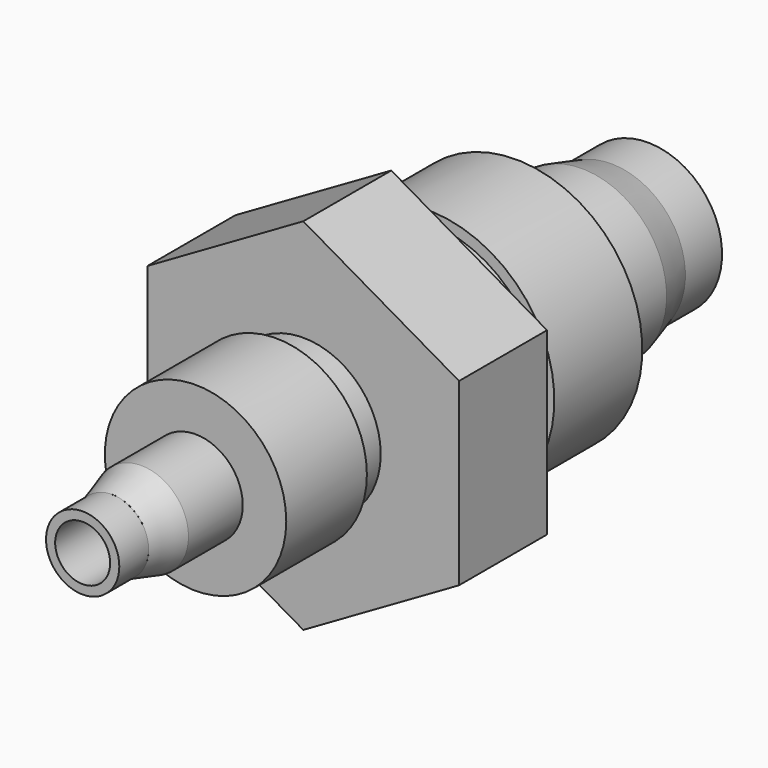
from build123d import *

# Parameters (mm, degrees)
F1_DEPTH  = 3
F2_R      = 6.3
F3_DEPTH  = 2.5
F4_R      = 6.9
F5_DEPTH  = 6
F6_R      = 4.625
F7_DEPTH  = 4.5
F8_R      = 4.625
F9_DEPTH  = 2
F9_TAPER  = 16
F10_R     = 4.0515092285
F10_R_2   = 4
F11_DEPTH = 2.5
F12_R     = 3.225
F13_DEPTH = 20.5
F14_R     = 4.225
F15_DEPTH = 1.85
F16_R     = 4.95
F17_DEPTH = 5.5
F18_R     = 2.575
F19_DEPTH = 3.7
F20_R     = 2.575
F21_DEPTH = 2
F21_TAPER = 16
F22_R     = 2
F23_DEPTH = 2
F24_R     = 1.5
F25_DEPTH = 18.05
F26_R     = 3.225
F27_DEPTH = 3.5
F27_TAPER = 35


with BuildPart() as f1:
    # F0 (on Front) → F1 (new body, symmetric)
    with BuildSketch(Plane.XZ):
        Polygon((-8.5, -4.9074772881), (0, -9.8149545762), (8.5, -4.9074772881), (8.5, 4.9074772881), (0, 9.8149545762), (-8.5, 4.9074772881), align=None)
    extrude(amount=F1_DEPTH, both=True)

    # F2 (on face) → F3 (join)
    with BuildSketch(Plane(origin=(0, 3, 0), x_dir=(-1, 0, 0), z_dir=(0, 1, 0))):
        Circle(F2_R)
    extrude(amount=F3_DEPTH)

    # F4 (on face) → F5 (join)
    with BuildSketch(Plane(origin=(0, 5.5, 0), x_dir=(-1, 0, 0), z_dir=(0, 1, 0))):
        Circle(F4_R)
    extrude(amount=F5_DEPTH)

    # F6 (on face) → F7 (join)
    with BuildSketch(Plane(origin=(0, 11.5, 0), x_dir=(-1, 0, 0), z_dir=(0, 1, 0))):
        Circle(F6_R)
    extrude(amount=F7_DEPTH)

    # F8 (on face) → F9 (join)
    with BuildSketch(Plane(origin=(0, 16, 0), x_dir=(-1, 0, 0), z_dir=(0, 1, 0))):
        Circle(F8_R)
    extrude(amount=F9_DEPTH, taper=F9_TAPER)

    # F10 (on face) → F11 (join)
    with BuildSketch(Plane(origin=(0, 18, 0), x_dir=(-1, 0, 0), z_dir=(0, 1, 0))):
        Circle(F10_R)
        Circle(F10_R_2, mode=Mode.SUBTRACT)
        Circle(F10_R_2)
    extrude(amount=F11_DEPTH)

    # F12 (on face) → F13 (cut, through all)
    with BuildSketch(Plane(origin=(0, 20.5, 0), x_dir=(-1, 0, 0), z_dir=(0, 1, 0))):
        Circle(F12_R)
    extrude(amount=-F13_DEPTH, mode=Mode.SUBTRACT)

    # F14 (on face) → F15 (join)
    with BuildSketch(Plane.XZ.offset(3)):
        Circle(F14_R)
    extrude(amount=F15_DEPTH)

    # F16 (on face) → F17 (join)
    with BuildSketch(Plane.XZ.offset(4.85)):
        Circle(F16_R)
    extrude(amount=F17_DEPTH)

    # F18 (on face) → F19 (join)
    with BuildSketch(Plane.XZ.offset(10.35)):
        Circle(F18_R)
    extrude(amount=F19_DEPTH)

    # F20 (on face) → F21 (join)
    with BuildSketch(Plane.XZ.offset(14.05)):
        Circle(F20_R)
    extrude(amount=F21_DEPTH, taper=F21_TAPER)

    # F22 (on face) → F23 (join)
    with BuildSketch(Plane.XZ.offset(16.05)):
        Circle(F22_R)
    extrude(amount=F23_DEPTH)

    # F24 (on face) → F25 (cut, through all)
    with BuildSketch(Plane.XZ.offset(18.05)):
        Circle(F24_R)
    extrude(amount=-F25_DEPTH, mode=Mode.SUBTRACT)

    # F26 (on Front) → F27 (cut)
    with BuildSketch(Plane.XZ):
        Circle(F26_R)
    extrude(amount=F27_DEPTH, taper=F27_TAPER, mode=Mode.SUBTRACT)


solid = f1.part
